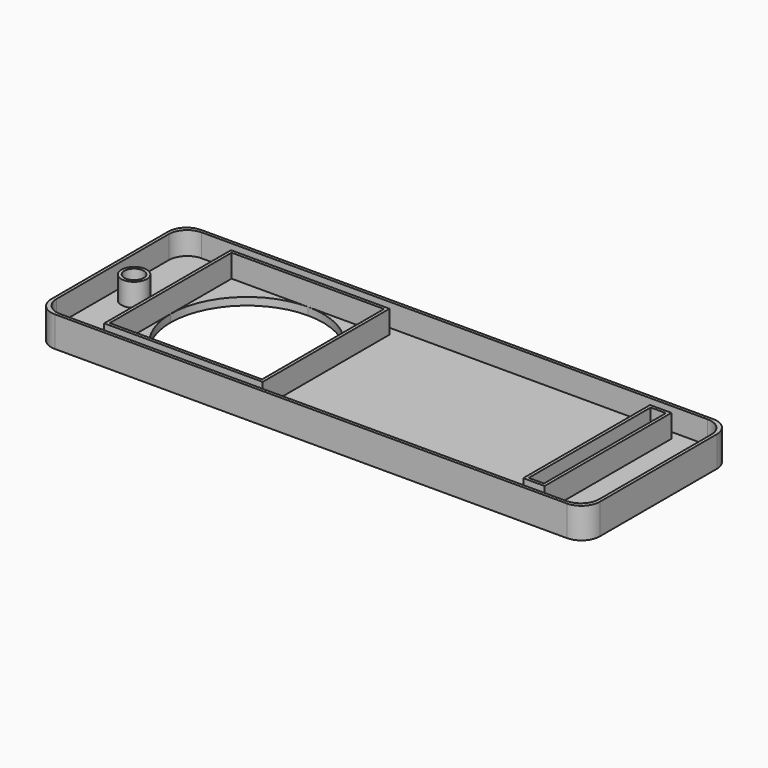
from build123d import *

# Parameters (mm, degrees)
F0_R     = 4.175
F0_W     = 52
F0_H     = 52
F0_W_2   = 7
F0_W_3   = 5
F0_H_2   = 50
F0_R_2   = 3.175
F1_DEPTH = 2.5
F2_DEPTH = 10
F3_DEPTH = 10
F4_DEPTH = 10


with BuildPart() as f1:
    # F0 (on Top) → F1 (new body)
    with BuildSketch(Plane.XY):
        with BuildLine():
            Line((-84, -30), (84, -30))
            ThreePointArc((84, -30), (88.2426406871, -28.2426406871), (90, -24))
            Line((90, -24), (90, 24))
            ThreePointArc((90, 24), (88.2426406871, 28.2426406871), (84, 30))
            Line((84, 30), (-84, 30))
            ThreePointArc((-84, 30), (-88.2426406871, 28.2426406871), (-90, 24))
            Line((-90, 24), (-90, -24))
            ThreePointArc((-90, -24), (-88.2426406871, -28.2426406871), (-84, -30))
        make_face()
        with BuildLine():
            ThreePointArc((89, -23), (87.2426406871, -27.2426406871), (83, -29))
            Line((83, -29), (-83, -29))
            ThreePointArc((-83, -29), (-87.2426406871, -27.2426406871), (-89, -23))
            Line((-89, -23), (-89, 23))
            ThreePointArc((-89, 23), (-87.2426406871, 27.2426406871), (-83, 29))
            Line((-83, 29), (83, 29))
            ThreePointArc((83, 29), (87.2426406871, 27.2426406871), (89, 23))
            Line((89, 23), (89, -23))
        make_face(mode=Mode.SUBTRACT)
        with BuildLine():
            Line((-83, -29), (83, -29))
            ThreePointArc((83, -29), (87.2426406871, -27.2426406871), (89, -23))
            Line((89, -23), (89, 23))
            ThreePointArc((89, 23), (87.2426406871, 27.2426406871), (83, 29))
            Line((83, 29), (-83, 29))
            ThreePointArc((-83, 29), (-87.2426406871, 27.2426406871), (-89, 23))
            Line((-89, 23), (-89, -23))
            ThreePointArc((-89, -23), (-87.2426406871, -27.2426406871), (-83, -29))
        make_face()
        with Locations((-82, 0)):
            Circle(F0_R, mode=Mode.SUBTRACT)
        with Locations((-45, 0)):
            Rectangle(F0_W, F0_H, mode=Mode.SUBTRACT)
        with Locations((70, 0)):
            Rectangle(F0_W_2, F0_H, mode=Mode.SUBTRACT)
        with Locations((-45, 0)):
            Rectangle(F0_W, F0_H)
        Polygon((-20, 0), (-20, -25), (-45, -25), (-70, -25), (-70, 0), (-70, 25), (-45, 25), (-20, 25), align=None, mode=Mode.SUBTRACT)
        with Locations((70, 0)):
            Rectangle(F0_W_2, F0_H)
        with Locations((70, 0)):
            Rectangle(F0_W_3, F0_H_2, mode=Mode.SUBTRACT)
        with Locations((70, 0)):
            Rectangle(F0_W_3, F0_H_2)
        with BuildLine():
            Line((-45, -25), (-20, -25))
            Line((-20, -25), (-20, 0))
            ThreePointArc((-20, 0), (-27.3223304703, -17.6776695297), (-45, -25))
        make_face()
        with BuildLine():
            ThreePointArc((-45, 25), (-27.3223304703, 17.6776695297), (-20, 0))
            Line((-20, 0), (-20, 25))
            Line((-20, 25), (-45, 25))
        make_face()
        with BuildLine():
            Line((-70, 25), (-70, 0))
            ThreePointArc((-70, 0), (-62.6776695297, 17.6776695297), (-45, 25))
            Line((-45, 25), (-70, 25))
        make_face()
        with BuildLine():
            Line((-70, -25), (-45, -25))
            ThreePointArc((-45, -25), (-62.6776695297, -17.6776695297), (-70, 0))
            Line((-70, 0), (-70, -25))
        make_face()
        with Locations((-82, 0)):
            Circle(F0_R)
        with Locations((-82, 0)):
            Circle(F0_R_2, mode=Mode.SUBTRACT)
        with Locations((-82, 0)):
            Circle(F0_R_2)
    extrude(amount=F1_DEPTH)

    # F0 (on Top) → F2 (join)
    with BuildSketch(Plane.XY):
        with Locations((-45, 0)):
            Rectangle(F0_W, F0_H)
        Polygon((-20, 0), (-20, -25), (-45, -25), (-70, -25), (-70, 0), (-70, 25), (-45, 25), (-20, 25), align=None, mode=Mode.SUBTRACT)
        with Locations((70, 0)):
            Rectangle(F0_W_2, F0_H)
        with Locations((70, 0)):
            Rectangle(F0_W_3, F0_H_2, mode=Mode.SUBTRACT)
    extrude(amount=F2_DEPTH)

    # F0 (on Top) → F3 (join)
    with BuildSketch(Plane.XY):
        with Locations((-82, 0)):
            Circle(F0_R)
        with Locations((-82, 0)):
            Circle(F0_R_2, mode=Mode.SUBTRACT)
    extrude(amount=F3_DEPTH)

    # F0 (on Top) → F4 (join)
    with BuildSketch(Plane.XY):
        with BuildLine():
            Line((-84, -30), (84, -30))
            ThreePointArc((84, -30), (88.2426406871, -28.2426406871), (90, -24))
            Line((90, -24), (90, 24))
            ThreePointArc((90, 24), (88.2426406871, 28.2426406871), (84, 30))
            Line((84, 30), (-84, 30))
            ThreePointArc((-84, 30), (-88.2426406871, 28.2426406871), (-90, 24))
            Line((-90, 24), (-90, -24))
            ThreePointArc((-90, -24), (-88.2426406871, -28.2426406871), (-84, -30))
        make_face()
        with BuildLine():
            ThreePointArc((89, -23), (87.2426406871, -27.2426406871), (83, -29))
            Line((83, -29), (-83, -29))
            ThreePointArc((-83, -29), (-87.2426406871, -27.2426406871), (-89, -23))
            Line((-89, -23), (-89, 23))
            ThreePointArc((-89, 23), (-87.2426406871, 27.2426406871), (-83, 29))
            Line((-83, 29), (83, 29))
            ThreePointArc((83, 29), (87.2426406871, 27.2426406871), (89, 23))
            Line((89, 23), (89, -23))
        make_face(mode=Mode.SUBTRACT)
    extrude(amount=F4_DEPTH)


solid = f1.part
